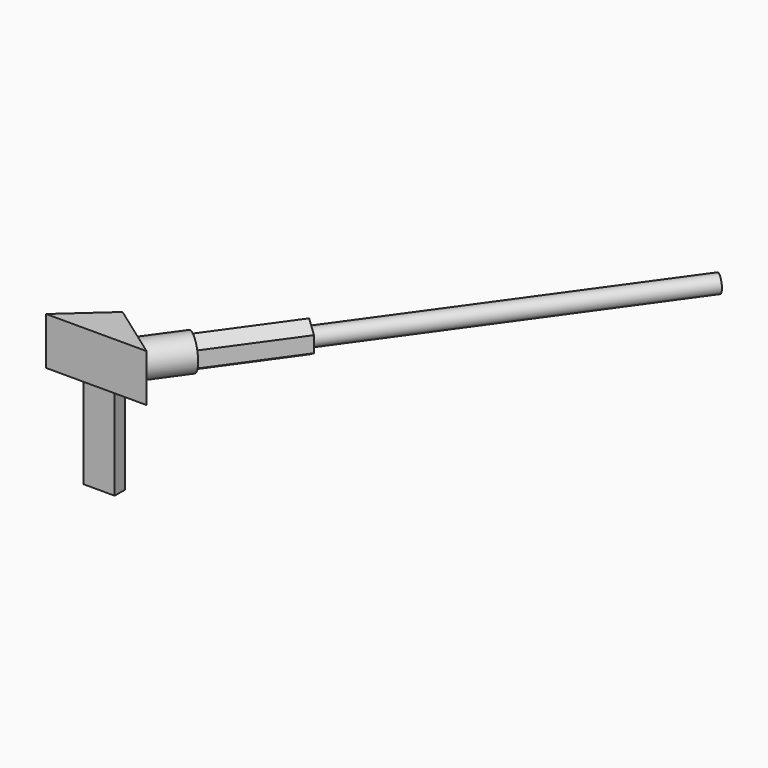
from build123d import *

# Parameters (mm, degrees)
F1_DEPTH  = 25.4
F2_R      = 9.2037028664
F3_DEPTH  = 25.4
F4_W      = 16.5919382125
F4_H      = 6.8211294711
F5_DEPTH  = 25.4
F6_DEPTH  = 25.4
F8_DEPTH  = 25.4
F9_DEPTH  = 25.4
F10_R     = 4.5988805072
F11_DEPTH = 177.8


with BuildPart() as f1:
    # F0 (on Top) → F1 (new body)
    with BuildSketch(Plane.XY):
        Polygon((-29.9576614052, 52.6333078742), (-53.7394359708, 31.2481448054), (-41.9407263398, 31.2481448054), (-25.5331452936, 42.3094369471), align=None)
        Polygon((-23.8739512861, 35.303954035), (-41.9407263398, 31.2481448054), (0, 31.2481448054), align=None)
        Polygon((-25.5331452936, 42.3094369471), (-41.9407263398, 31.2481448054), (-23.8739512861, 35.303954035), align=None)
        Polygon((0, 31.2481448054), (-29.9576614052, 52.6333078742), (-25.5331452936, 42.3094369471), align=None)
        Polygon((-23.8739512861, 35.303954035), (0, 31.2481448054), (-25.5331452936, 42.3094369471), align=None)
    extrude(amount=F1_DEPTH)

    # F2 (on face) → F3 (join)
    with BuildSketch(Plane(origin=(14.7765754508, 20.6999424161, 0), x_dir=(-0.8139026255, 0.5810013049, 0), z_dir=(0.5810013049, 0.8139026255, 0))):
        with Locations((38.1454527378, 11.5221776068)):
            Circle(F2_R)
    extrude(amount=F3_DEPTH)

    # F4 (on face) → F5 (join)
    with BuildSketch(Plane(origin=(0, 0, 0), x_dir=(1, 0, 0), z_dir=(0, 0, -1))):
        with Locations((-28.4828236327, -38.5301616043)):
            Rectangle(F4_W, F4_H)
    extrude(amount=F5_DEPTH)

    # F6 (add): a face of the model
    f6_faces = [f1.faces().sort_by_distance(p)[0] for p in [
        (-28.4828236327, 38.5301616043, -25.4),
    ]]
    extrude(f6_faces, amount=F6_DEPTH)

    # F7 (on face) → F8 (join)
    with BuildSketch(Plane(origin=(29.5340085947, 41.3730691028, 0), x_dir=(-0.8139026255, 0.5810013049, 0), z_dir=(0.5810013049, 0.8139026255, 0))):
        Polygon((45.5019623041, 7.2748948284), (45.5019623041, 15.7694603852), (38.1454527378, 20.0167431636), (30.7889431715, 15.7694603852), (30.7889431715, 7.2748948284), (38.1454527378, 3.02761205), align=None)
    extrude(amount=F8_DEPTH)

    # F9 (add): a face of the model
    f9_faces = [f1.faces().sort_by_distance(p)[0] for p in [
        (13.244757606, 84.2087536053, 11.5221776068),
    ]]
    extrude(f9_faces, amount=F9_DEPTH)

    # F10 (on face) → F11 (join)
    with BuildSketch(Plane(origin=(59.0488748825, 82.7193224761, 0), x_dir=(-0.8139026255, 0.5810013049, 0), z_dir=(0.5810013049, 0.8139026255, 0))):
        with Locations((38.1127148867, 11.3378223032)):
            Circle(F10_R)
    extrude(amount=F11_DEPTH)


solid = f1.part
